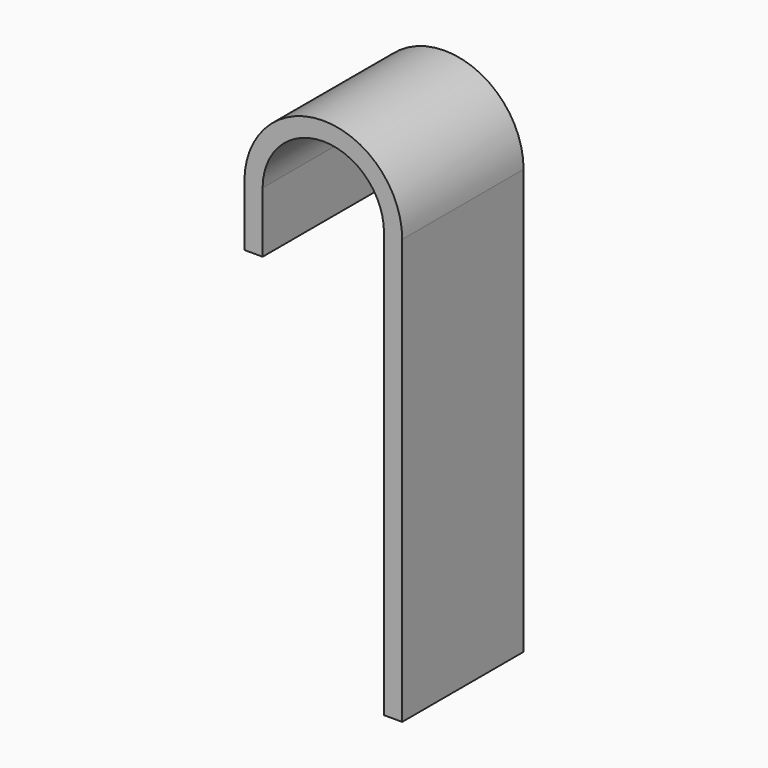
from build123d import *

# Parameters (mm, degrees)
F0_W     = 3
F0_H     = 70
F0_H_2   = 10
F1_DEPTH = 25


with BuildPart() as f1:
    # F0 (on Front) → F1 (new body)
    with BuildSketch(Plane.XZ):
        with BuildLine():
            ThreePointArc((-21.5, 35), (-11.5, 45), (-1.5, 35))
            Line((-1.5, 35), (1.5, 35))
            ThreePointArc((1.5, 35), (-11.5, 48), (-24.5, 35))
            Line((-24.5, 35), (-21.5, 35))
        make_face()
        Rectangle(F0_W, F0_H)
        with Locations((-23, 30)):
            Rectangle(F0_W, F0_H_2)
    extrude(amount=F1_DEPTH)


solid = f1.part
